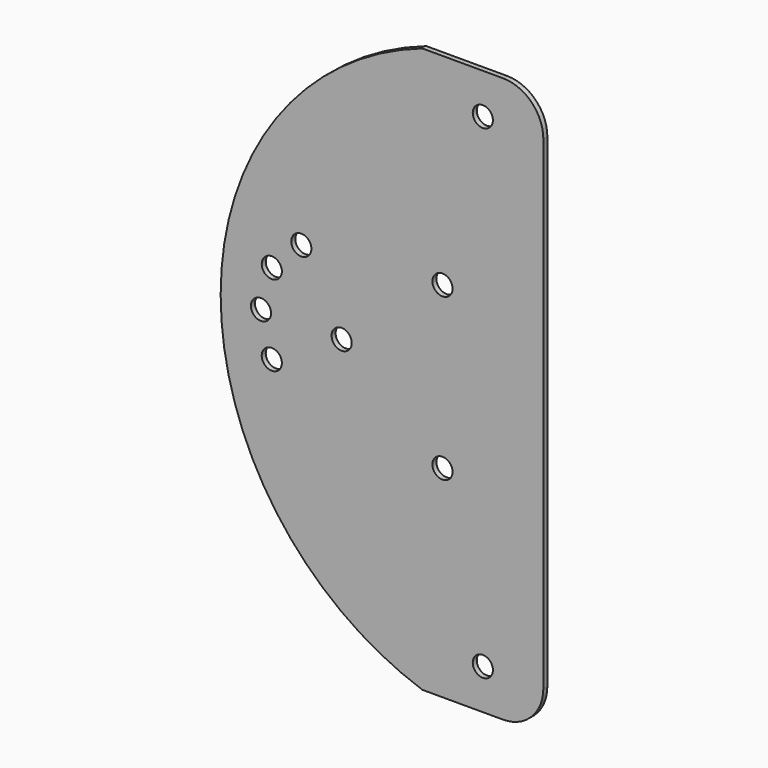
from build123d import *

# Parameters (mm, degrees)
F0_DEPTH = 3.175
F2_D     = 12.7


with BuildPart() as f0:
    # F1 (on Front) → F0 (new body)
    with BuildSketch(Plane.XZ):
        with BuildLine():
            ThreePointArc((-38.1, 177.8), (-165.1, 0), (-38.1, -177.8))
            Line((-38.1, -177.8), (-38.1, 177.8))
        make_face()
        with BuildLine():
            Line((-38.1, 177.8), (-38.1, -177.8))
            Line((-38.1, -177.8), (12.7, -177.8))
            ThreePointArc((12.7, -177.8), (30.6605122421, -170.3605122421), (38.1, -152.4))
            Line((38.1, -152.4), (38.1, 152.4))
            ThreePointArc((38.1, 152.4), (30.6605122421, 170.3605122421), (12.7, 177.8))
            Line((12.7, 177.8), (-38.1, 177.8))
        make_face()
    extrude(amount=F0_DEPTH)

    # F2 (through all)
    with Locations(Plane(origin=(0, 0, 0), x_dir=(1, 0, 0), z_dir=(0, 1, 0))):
        with Locations((-88.9, 0), (-139.7, 0), (0, 152.4), (0, -152.4), (-132.8928, 25.4), (-132.8928, -25.4), (-114.3, -43.9928), (-25.4, -50.8), (-25.4, 50.8)):
            Hole(F2_D / 2)


solid = f0.part
